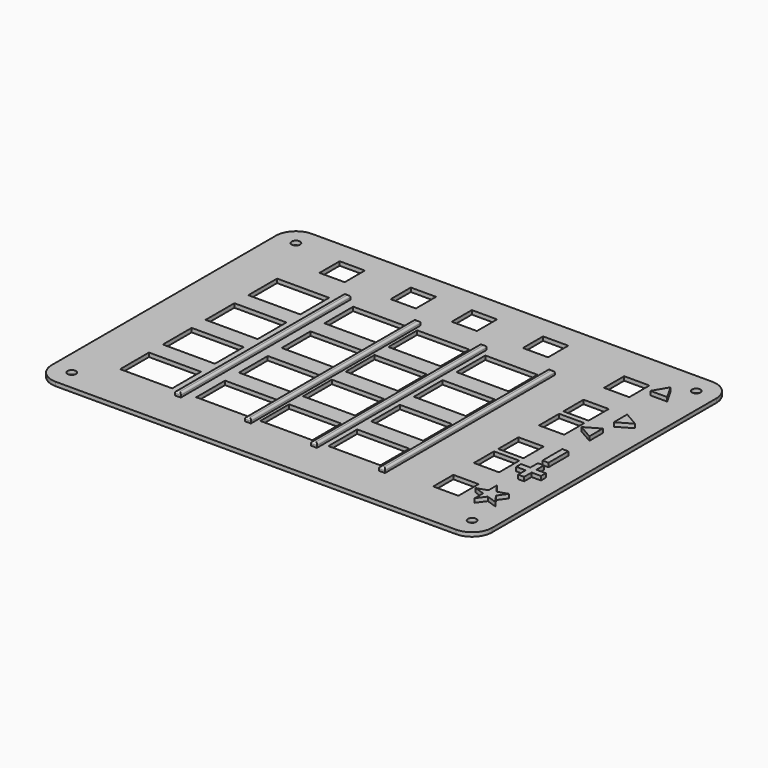
from build123d import *

# Parameters (mm, degrees)
SKETCH045_R     = 1.05
PAD031_DEPTH    = 1
SKETCH046_W     = 6.3
SKETCH046_H     = 6.3
POCKET013_DEPTH = 1.001
SKETCH047_W     = 13
SKETCH047_H     = 9
POCKET014_DEPTH = 1.001
SKETCH049_W     = 1.5
SKETCH049_H     = 53
PAD032_DEPTH    = 1
FILLET001_R     = 0.5
FILLET002_R     = 0.5
FILLET003_R     = 0.5
SKETCH048_W     = 1.5
SKETCH048_H     = 6.181126
PAD033_DEPTH    = 1


with BuildPart() as part:
    # Sketch045 → Pad031 (new body)
    with BuildSketch(Plane.XY):
        with BuildLine():
            Line((-4, 71), (-4, 1))
            ThreePointArc((-4, 1), (-2.535534, -2.535534), (1, -4))
            Line((1, -4), (101, -4))
            ThreePointArc((101, -4), (104.535534, -2.535534), (106, 1))
            Line((106, 1), (106, 71))
            ThreePointArc((106, 71), (104.535534, 74.535534), (101, 76))
            Line((101, 76), (1, 76))
            ThreePointArc((1, 76), (-2.535534, 74.535534), (-4, 71))
        make_face()
        with Locations((1, 71)):
            Circle(SKETCH045_R, mode=Mode.SUBTRACT)
        with Locations((1, 1)):
            Circle(SKETCH045_R, mode=Mode.SUBTRACT)
        with Locations((101, 1)):
            Circle(SKETCH045_R, mode=Mode.SUBTRACT)
        with Locations((101, 71)):
            Circle(SKETCH045_R, mode=Mode.SUBTRACT)
    extrude(amount=PAD031_DEPTH)

    # Sketch046 (on Face14 of Pad031) → Pocket013 (cut, through all)
    with BuildSketch(Plane.XY.offset(1)):
        with Locations((89.27, 63.94)):
            Rectangle(SKETCH046_W, SKETCH046_H)
        with Locations((89.27, 51.24)):
            Rectangle(SKETCH046_W, SKETCH046_H)
        with Locations((89.27, 43.62)):
            Rectangle(SKETCH046_W, SKETCH046_H)
        with Locations((89.27, 30.92)):
            Rectangle(SKETCH046_W, SKETCH046_H)
        with Locations((89.27, 23.3)):
            Rectangle(SKETCH046_W, SKETCH046_H)
        with Locations((89.27, 10.6)):
            Rectangle(SKETCH046_W, SKETCH046_H)
        with Locations((15.6, 67.19)):
            Rectangle(SKETCH046_W, SKETCH046_H)
        with Locations((33.38, 67.19)):
            Rectangle(SKETCH046_W, SKETCH046_H)
        with Locations((48.62, 67.19)):
            Rectangle(SKETCH046_W, SKETCH046_H)
        with Locations((66.4, 67.19)):
            Rectangle(SKETCH046_W, SKETCH046_H)
    extrude(amount=-POCKET013_DEPTH, mode=Mode.SUBTRACT)

    # Sketch047 (on Face5 of Pocket013) → Pocket014 (cut, through all)
    with BuildSketch(Plane.XY.offset(1)):
        with Locations((14, 52.5)):
            Rectangle(SKETCH047_W, SKETCH047_H)
        with Locations((14, 39.166667)):
            Rectangle(SKETCH047_W, SKETCH047_H)
        with Locations((14, 25.833333)):
            Rectangle(SKETCH047_W, SKETCH047_H)
        with Locations((14, 12.5)):
            Rectangle(SKETCH047_W, SKETCH047_H)
        with Locations((33, 39.166667)):
            Rectangle(SKETCH047_W, SKETCH047_H)
        with Locations((33, 25.833333)):
            Rectangle(SKETCH047_W, SKETCH047_H)
        with Locations((33, 12.5)):
            Rectangle(SKETCH047_W, SKETCH047_H)
        with Locations((49, 39.166667)):
            Rectangle(SKETCH047_W, SKETCH047_H)
        with Locations((49, 25.833333)):
            Rectangle(SKETCH047_W, SKETCH047_H)
        with Locations((49, 12.5)):
            Rectangle(SKETCH047_W, SKETCH047_H)
        with Locations((66, 39.166667)):
            Rectangle(SKETCH047_W, SKETCH047_H)
        with Locations((66, 25.833333)):
            Rectangle(SKETCH047_W, SKETCH047_H)
        with Locations((66, 12.5)):
            Rectangle(SKETCH047_W, SKETCH047_H)
        with Locations((33, 52.5)):
            Rectangle(SKETCH047_W, SKETCH047_H)
        with Locations((49, 52.5)):
            Rectangle(SKETCH047_W, SKETCH047_H)
        with Locations((66, 52.5)):
            Rectangle(SKETCH047_W, SKETCH047_H)
    extrude(amount=-POCKET014_DEPTH, mode=Mode.SUBTRACT)

    # Sketch049 (on Face5 of Pocket014) → Pad032 (join)
    with BuildSketch(Plane.XY.offset(1)):
        with Locations((23.5, 32.5)):
            Rectangle(SKETCH049_W, SKETCH049_H)
        with Locations((41, 32.5)):
            Rectangle(SKETCH049_W, SKETCH049_H)
        with Locations((57.5, 32.5)):
            Rectangle(SKETCH049_W, SKETCH049_H)
        with Locations((74.5, 32.5)):
            Rectangle(SKETCH049_W, SKETCH049_H)
    extrude(amount=PAD032_DEPTH)

    # Fillet001
    fillet001_edges = [part.edges().sort_by_distance(p)[0] for p in [
        (24.25, 32.5, 2),
        (23.5, 6, 2),
        (22.75, 32.5, 2),
        (23.5, 59, 2),
    ]]
    fillet(fillet001_edges, radius=FILLET001_R)

    # Fillet002
    fillet002_edges = [part.edges().sort_by_distance(p)[0] for p in [
        (41, 59, 2),
        (41.75, 32.5, 2),
        (41, 6, 2),
        (40.25, 32.5, 2),
    ]]
    fillet(fillet002_edges, radius=FILLET002_R)

    # Fillet003
    fillet003_edges = [part.edges().sort_by_distance(p)[0] for p in [
        (57.5, 59, 2),
        (58.25, 32.5, 2),
        (57.5, 6, 2),
        (56.75, 32.5, 2),
        (74.5, 59, 2),
        (75.25, 32.5, 2),
        (74.5, 6, 2),
        (73.75, 32.5, 2),
    ]]
    fillet(fillet003_edges, radius=FILLET003_R)

    # Sketch048 (on Face5 of Pocket014) → Pad033 (join)
    with BuildSketch(Plane.XY.offset(1)):
        Polygon((94.197178, 10.6), (96.737139, 9.774717), (96.737139, 7.104044), (98.306921, 9.264664), (100.846882, 8.43938), (99.2771, 10.6), (100.846882, 12.76062), (98.306921, 11.935336), (96.737139, 14.095956), (96.737139, 11.425283), align=None)
        with Locations((97.873044, 30.92)):
            Rectangle(SKETCH048_W, SKETCH048_H)
        Polygon((97.123044, 26.390563), (98.623044, 26.390563), (98.623044, 24.05), (100.963607, 24.05), (100.963607, 22.55), (98.623044, 22.55), (98.623044, 20.209437), (97.123044, 20.209437), (97.123044, 22.55), (94.782481, 22.55), (94.782481, 24.05), (97.123044, 24.05), align=None)
        Polygon((94.244044, 43.62), (97.873044, 41.524796), (97.873044, 45.715204), align=None)
        Polygon((101.502044, 51.24), (97.873044, 53.335204), (97.873044, 49.144796), align=None)
        Polygon((97.287938, 67.569), (95.192734, 63.94), (99.383142, 63.94), align=None)
    extrude(amount=PAD033_DEPTH)


with BuildPart() as part_1:
    # Body008 placement: moved
    add(part.part.moved(Location((0, 0, 8))))


solid = part_1.part
